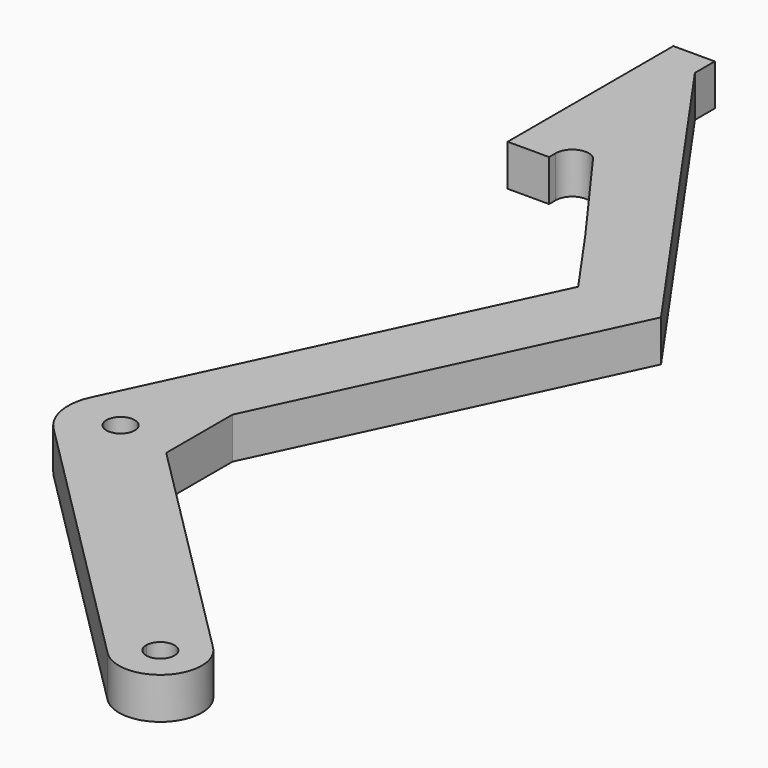
from build123d import *

# Parameters (mm, degrees)
F0_R     = 1.7
F1_DEPTH = 5
F2_ANGLE = 180


with BuildPart() as f1:
    # F0 (on Top) → F1 (new body)
    with BuildSketch(Plane.XY):
        with BuildLine():
            Line((14.554017, 67.673713), (9.554017, 67.673713))
            Line((9.554017, 67.673713), (9.554017, 64.673713))
            Line((9.554017, 64.673713), (-19.124805, 23.716111))
            Line((-19.124805, 23.716111), (0.01047, -17.012764))
            Line((0.01047, -17.012764), (0.01047, -27.012764))
            Line((0.01047, -27.012764), (7.081537, -34.083832))
            Line((7.081537, -34.083832), (11.377259, -29.78811))
            ThreePointArc((11.377259, -29.78811), (13.142242, -26.391636), (12.634428, -22.597782))
            Line((12.634428, -22.597782), (-9.124805, 23.716111))
            Line((-9.124805, 23.716111), (-3.120972, 32.290473))
            Line((-3.120972, 32.290473), (6.244902, 45.185738))
            ThreePointArc((6.244902, 45.185738), (8.385212, 45.49281), (9.554017, 43.673713))
            Line((9.554017, 43.673713), (9.554017, 42.673713))
            Line((9.554017, 42.673713), (14.554017, 42.673713))
            Line((14.554017, 42.673713), (14.554017, 67.673713))
        make_face()
        with Locations((6.887131, -25.297982)):
            Circle(F0_R, mode=Mode.SUBTRACT)
        with BuildLine():
            Line((7.081537, -34.083832), (0.01047, -27.012764))
            Line((0.01047, -27.012764), (-28.273802, -55.297035))
            Line((-28.273802, -55.297035), (-25.940349, -57.630488))
            ThreePointArc((-25.940349, -57.630488), (-24.087706, -57.261974), (-23.038268, -58.832569))
            ThreePointArc((-23.038268, -58.832569), (-23.167673, -59.483131), (-23.536186, -60.034651))
            Line((-23.536186, -60.034651), (-21.202734, -62.368103))
            Line((-21.202734, -62.368103), (7.081537, -34.083832))
        make_face()
        with BuildLine():
            Line((-25.940349, -57.630488), (-28.273802, -55.297035))
            ThreePointArc((-28.273802, -55.297035), (-28.273802, -62.368103), (-21.202734, -62.368103))
            Line((-21.202734, -62.368103), (-23.536186, -60.034651))
            ThreePointArc((-23.536186, -60.034651), (-25.940349, -60.034651), (-25.940349, -57.630488))
        make_face()
    extrude(amount=F1_DEPTH)


with BuildPart() as f1_1:
    # F2: moved
    add(f1.part.rotate(Axis((14.554017, 55.173713, 5), (0, -1, 0)), F2_ANGLE))


with BuildPart() as f1_2:
    # F3: moved
    add(f1_1.part.moved(Location((7.62, 0, 0))))


solid = f1_2.part
